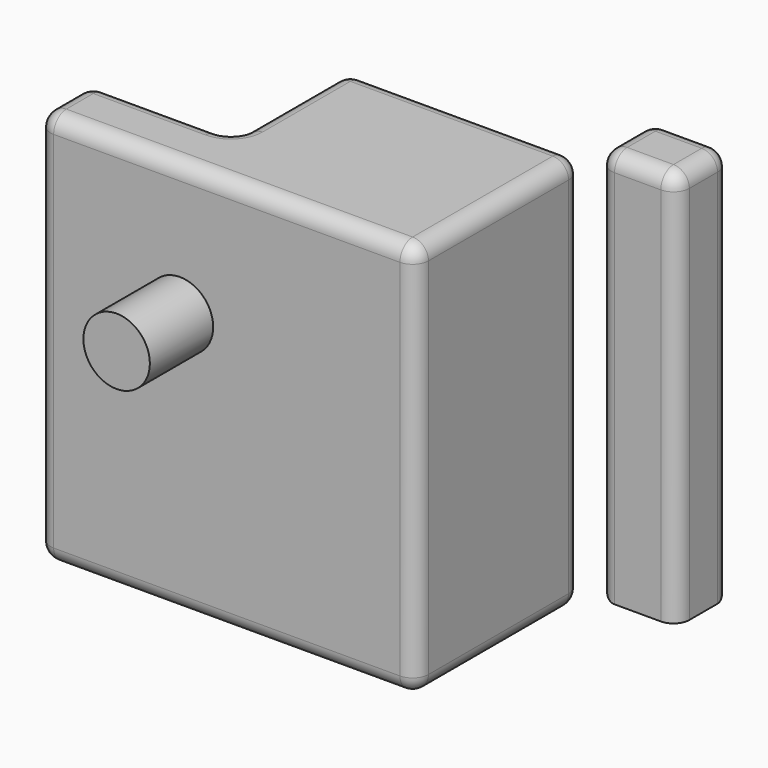
from build123d import *

# Parameters (mm, degrees)
F0_W     = 25.021188
F0_H     = 21.446731
F1_DEPTH = 127
F2_R     = 5.08
F3_R     = 10.665523
F4_DEPTH = 25.4


with BuildPart() as f1:
    # F0 (on Top) → F1 (new body)
    with BuildSketch(Plane.XY):
        with Locations((71.29373, 47.361711)):
            Rectangle(F0_W, F0_H)
        Polygon((-63.954927, -13.93125), (-63.954927, -34.897407), (57.320595, -34.897407), (57.320595, 31.447557), (-17.78, 31.447557), (-17.78, -13.93125), align=None)
    extrude(amount=F1_DEPTH)

    # F2
    f2_edges = [f1.edges().sort_by_distance(p)[0] for p in [
        (-17.78, 8.758154, 127),
        (-40.867464, -13.93125, 127),
        (-63.954927, -24.414328, 127),
        (-3.317166, -34.897407, 127),
        (57.320595, -1.724925, 127),
        (19.770297, 31.447557, 127),
        (57.320595, -34.897407, 63.5),
        (57.320595, -1.724925, 0),
        (-3.317166, -34.897407, 0),
        (-63.954927, -34.897407, 63.5),
        (83.804324, 36.638346, 63.5),
        (83.804324, 58.085077, 63.5),
        (58.783136, 36.638346, 63.5),
        (58.783136, 58.085077, 63.5),
        (57.320595, 31.447557, 63.5),
        (-17.78, 31.447557, 63.5),
        (-17.78, -13.93125, 63.5),
        (-63.954927, -13.93125, 63.5),
        (-40.867464, -13.93125, 0),
        (-17.78, 8.758154, 0),
        (19.770297, 31.447557, 0),
        (58.783136, 47.361711, 0),
        (71.29373, 58.085077, 0),
        (-63.954927, -24.414328, 0),
        (58.783136, 47.361711, 127),
        (71.29373, 58.085077, 127),
        (83.804324, 47.361711, 127),
        (71.29373, 36.638346, 127),
    ]]
    fillet(f2_edges, radius=F2_R)

    # F3 (on face) → F4 (join)
    with BuildSketch(Plane.XZ.offset(34.897407)):
        with Locations((-18.357383, 84.153309)):
            Circle(F3_R)
    extrude(amount=F4_DEPTH)


solid = f1.part
